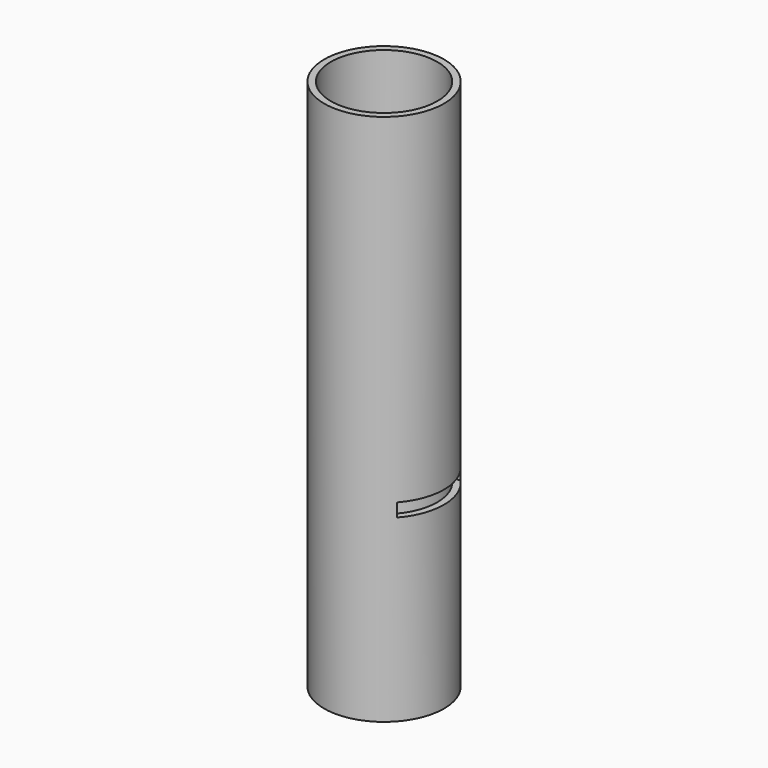
from build123d import *

# Parameters (mm, degrees)
F0_R     = 11.43
F0_R_2   = 10.16
F1_DEPTH = 101.6
F3_DEPTH = 12.7


with BuildPart() as f1:
    # F0 (on Top) → F1 (new body)
    with BuildSketch(Plane.XY):
        Circle(F0_R)
        Circle(F0_R_2, mode=Mode.SUBTRACT)
    extrude(amount=F1_DEPTH)


with BuildPart() as f3:
    # F2 (on Right) → F3 (new body, symmetric)
    with BuildSketch(Plane.YZ):
        Polygon((-7.62, 34.2392), (0, 34.2392), (7.62, 34.2392), (7.62, 36.7792), (-7.62, 36.7792), align=None)
    extrude(amount=F3_DEPTH, both=True)


with BuildPart() as f1_1:
    add(f1.part)

    # F4: cut F3
    add(f3.part, mode=Mode.SUBTRACT)


solid = f1_1.part
